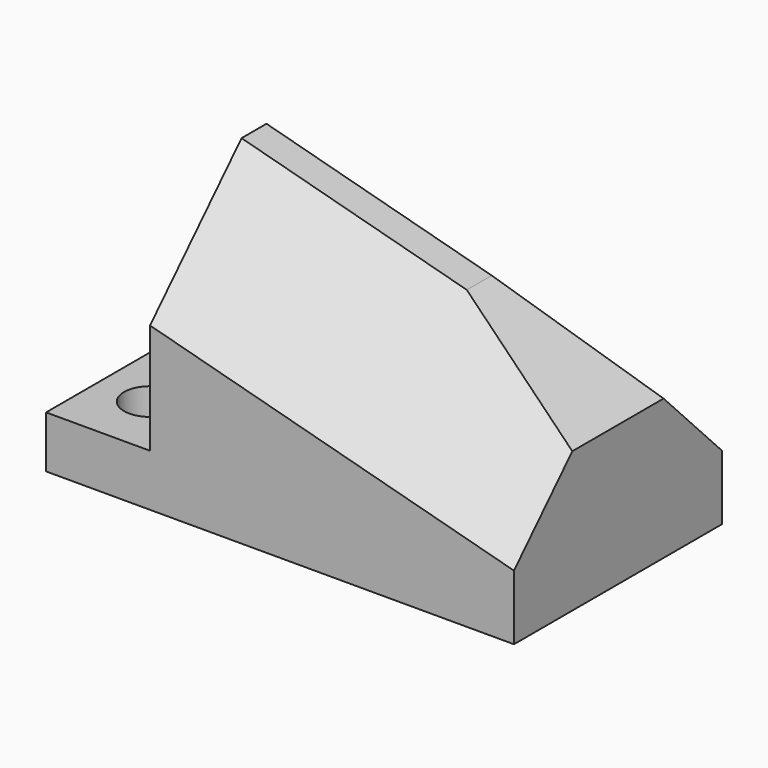
from build123d import *

# Parameters (mm, degrees)
F0_W     = 90
F0_H     = 50
F1_DEPTH = 54
F2_W     = 20
F2_H     = 44
F3_DEPTH = 50.001
F4_SIZE  = 22
F6_DEPTH = 50.001
F7_R     = 5
F8_DEPTH = 25


with BuildPart() as f1:
    # F0 (on Top) → F1 (new body)
    with BuildSketch(Plane.XY):
        Rectangle(F0_W, F0_H)
    extrude(amount=F1_DEPTH)

    # F2 (on face) → F3 (cut, through all)
    with BuildSketch(Plane.XZ.offset(25)):
        with Locations((-35, 32)):
            Rectangle(F2_W, F2_H)
        Polygon((45, 54), (-25, 54), (45, 35.243557), align=None)
    extrude(amount=-F3_DEPTH, mode=Mode.SUBTRACT)

    # F4
    f4_edges = [f1.edges().sort_by_distance(p)[0] for p in [
        (10, -25, 44.621778),
        (10, 25, 44.621778),
    ]]
    chamfer(f4_edges, length=F4_SIZE)

    # F5 (on face) → F6 (cut, through all)
    with BuildSketch(Plane.XZ.offset(25)):
        Polygon((61.415475, 42.577509), (18, 42.577509), (61.007772, 17.74696), align=None)
    extrude(amount=-F6_DEPTH, mode=Mode.SUBTRACT)

    # F7 (on face) → F8 (cut)
    with BuildSketch(Plane.XY.offset(10)):
        with Locations((-35, 12.5)):
            Circle(F7_R)
        with Locations((-35, -12.5)):
            Circle(F7_R)
    extrude(amount=-F8_DEPTH, mode=Mode.SUBTRACT)


solid = f1.part
